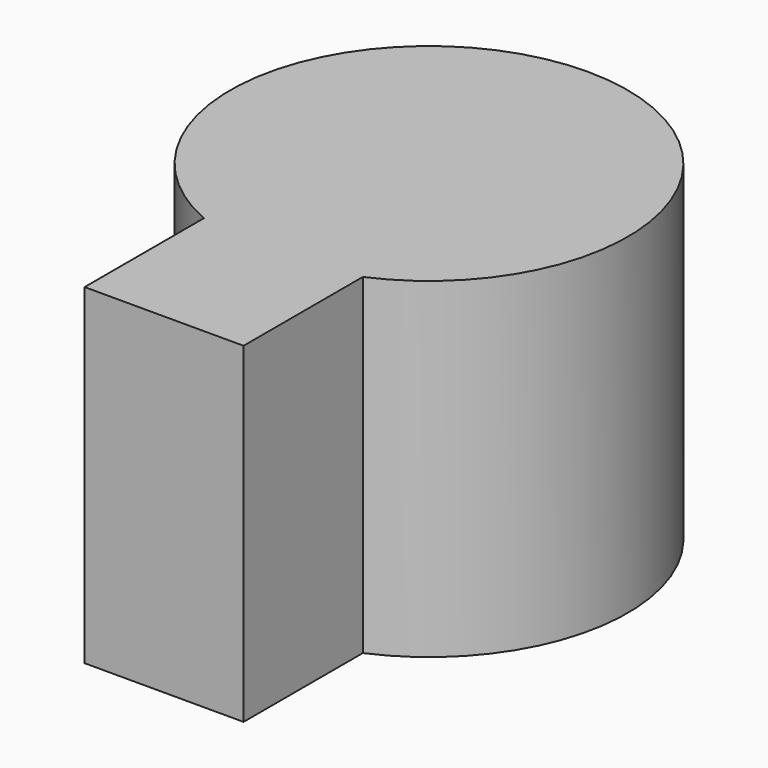
from build123d import *

# Parameters (mm, degrees)
F1_DEPTH = 25


with BuildPart() as f1:
    # F0 (on Top) → F1 (new body)
    with BuildSketch(Plane.XY):
        with BuildLine():
            Line((6, -25), (6, -13.747727))
            ThreePointArc((6, -13.747727), (0, 15), (-6, -13.747727))
            Line((-6, -13.747727), (-6, -25))
            Line((-6, -25), (0, -25))
            Line((0, -25), (6, -25))
        make_face()
    extrude(amount=F1_DEPTH)


solid = f1.part
